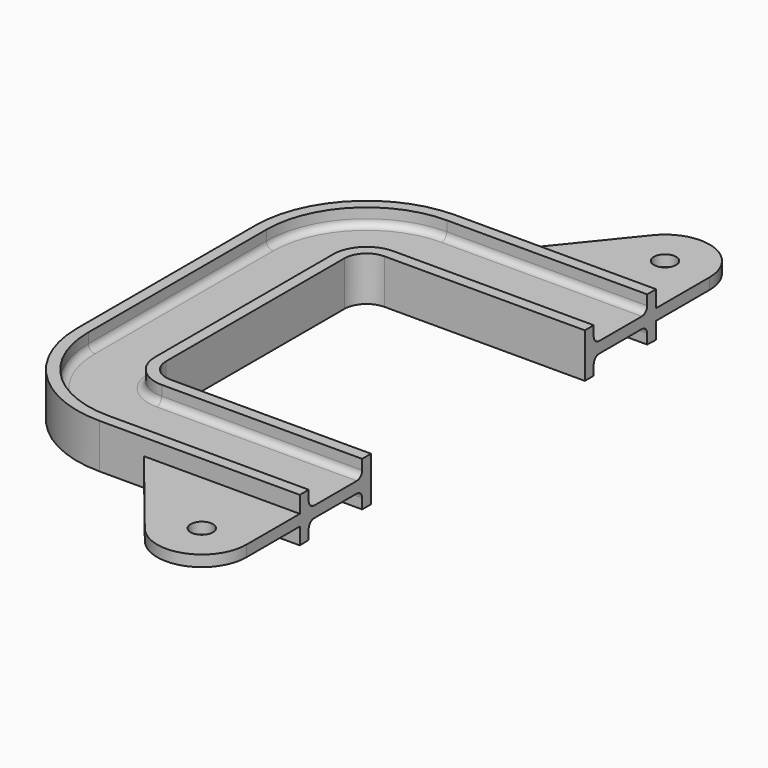
from build123d import *

# Parameters (mm, degrees)
F4_R     = 5
F5_DEPTH = 2.5


with BuildPart() as f2:
    # F2: sweep along a path in F0
    with BuildLine(Plane.XY) as f2_path:
        Line((0, 60), (-90, 60))
        ThreePointArc((-90, 60), (-97.0710678119, 57.0710678119), (-100, 50))
        Line((-100, 50), (-100, 0))
    # F1 (on Right) → F2 (sweep)
    with BuildSketch(Plane.YZ):
        with BuildLine():
            Line((95.0018057663, -9.8656333278), (100, -10))
            Line((100, -10), (100, 10))
            Line((100, 10), (95, 10))
            Line((95, 10), (95, 5.5))
            ThreePointArc((95, 5.5), (94.1213203436, 3.3786796564), (92, 2.5))
            Line((92, 2.5), (68, 2.5))
            ThreePointArc((68, 2.5), (65.8786796564, 3.3786796564), (65, 5.5))
            Line((65, 5.5), (65, 10))
            Line((65, 10), (60, 10))
            Line((60, 10), (60, 0))
            Line((60, 0), (60, -10))
            Line((60, -10), (65, -10))
            Line((65, -10), (65, -5.5))
            ThreePointArc((65, -5.5), (65.8786796564, -3.3786796564), (68, -2.5))
            Line((68, -2.5), (92.0018057663, -2.5))
            ThreePointArc((92.0018057663, -2.5), (94.1231261099, -3.3786796564), (95.0018057663, -5.5))
            Line((95.0018057663, -5.5), (95.0018057663, -9.8656333278))
        make_face()
    sweep(path=f2_path.line)

    # F3: F2 across plane


with BuildPart() as f2_1:
    add(f2.part)
    add(f2.part.mirror(Plane.XZ))

    # F4 (on Top) → F5 (join, symmetric)
    with BuildSketch(Plane.XY):
        with BuildLine():
            Line((-70, 100), (0, 100))
            Line((0, 100), (0, 130))
            ThreePointArc((0, 130), (-13.3277028936, 148.8541892248), (-35.5480451324, 142.5800752207))
            Line((-35.5480451324, 142.5800752207), (-70, 100))
        make_face()
        with Locations((-20, 130)):
            Circle(F4_R, mode=Mode.SUBTRACT)
        with BuildLine():
            Line((0, -130), (0, -100))
            Line((0, -100), (-70, -100))
            Line((-70, -100), (-35.5480451324, -142.5800752207))
            ThreePointArc((-35.5480451324, -142.5800752207), (-13.3277028936, -148.8541892248), (0, -130))
        make_face()
        with Locations((-20, -130)):
            Circle(F4_R, mode=Mode.SUBTRACT)
    extrude(amount=F5_DEPTH, both=True)


solid = f2_1.part
